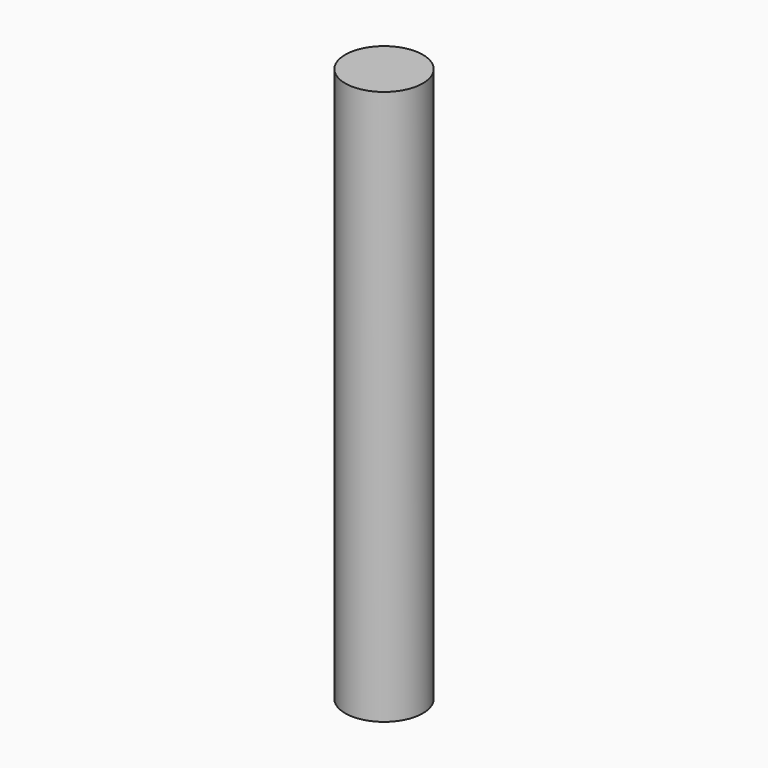
from build123d import *

# Parameters (mm, degrees)
CYLINDER_R     = 0.7
CYLINDER_DEPTH = 10


with BuildPart() as cilindro:
    # Cylinder → Cylinder (new body)
    with BuildSketch(Plane(origin=(3, 5.25, -8), x_dir=(1, 0, 0), z_dir=(0, 0, 1))):
        Circle(CYLINDER_R)
    extrude(amount=CYLINDER_DEPTH)


with BuildPart() as part_mirroring:
    # Part__Mirroring: instance of Cilindro
    add(cilindro.part.mirror(Plane(origin=(0, 0, 0), x_dir=(0, 1, 0), z_dir=(0, 0, 1))))


with BuildPart() as part_mirroring_1:
    # Part__Mirroring placement: moved
    add(part_mirroring.part.moved(Location((0, 6.5, -6))))


with BuildPart() as part_mirroring001:
    # Part__Mirroring001: instance of Part__Mirroring
    add(part_mirroring_1.part.mirror(Plane(origin=(0, 0, 0), x_dir=(0, 1, 0), z_dir=(0, 0, 1))))


with BuildPart() as part_mirroring001_1:
    # Part__Mirroring001 placement: moved
    add(part_mirroring001.part.moved(Location((31, 0, -6))))


solid = part_mirroring001_1.part
